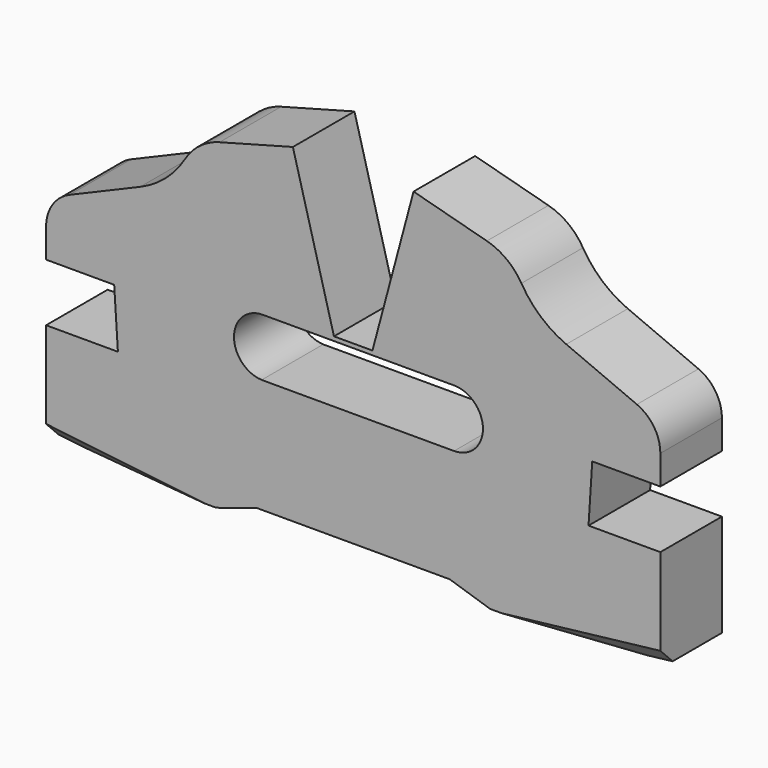
from build123d import *

# Parameters (mm, degrees)
F1_DEPTH = 12.7
F2_SIZE  = 5.08


with BuildPart() as f1:
    # F0 (on Front) → F1 (new body, symmetric)
    with BuildSketch(Plane.XZ):
        with BuildLine():
            Line((-78.86985, 24.153677), (-77.649682, 5.103677))
            Line((-77.649682, 5.103677), (-101.346, 5.103677))
            Line((-101.346, 5.103677), (-101.346, -28.678323))
            Line((-101.346, -28.678323), (-92.893675, -29.661545))
            Line((-92.893675, -29.661545), (-45.212, -29.661545))
            Line((-45.212, -29.661545), (-31.82804, -25.383405))
            Line((-31.82804, -25.383405), (31.82804, -25.383405))
            Line((31.82804, -25.383405), (45.212, -29.661545))
            Line((45.212, -29.661545), (92.893675, -29.661545))
            Line((92.893675, -29.661545), (101.346, -28.678323))
            Line((101.346, -28.678323), (101.346, 5.103677))
            Line((101.346, 5.103677), (77.649682, 5.103677))
            Line((77.649682, 5.103677), (78.86985, 24.153677))
            Line((78.86985, 24.153677), (101.346, 24.153677))
            Line((101.346, 24.153677), (101.346, 33.805677))
            ThreePointArc((101.346, 33.805677), (99.237568, 40.813436), (93.612348, 45.494363))
            Line((93.612348, 45.494363), (70.308838, 55.395677))
            ThreePointArc((70.308838, 55.395677), (61.88423, 60.664586), (55.500858, 68.27957))
            ThreePointArc((55.500858, 68.27957), (50.637881, 73.685788), (44.103503, 76.876033))
            Line((44.103503, 76.876033), (19.907397, 83.368455))
            Line((19.907397, 83.368455), (6.35, 32.77156))
            Line((6.35, 32.77156), (-6.35, 32.77156))
            Line((-6.35, 32.77156), (-19.907397, 83.368455))
            Line((-19.907397, 83.368455), (-44.103503, 76.876033))
            ThreePointArc((-44.103503, 76.876033), (-50.637881, 73.685788), (-55.500858, 68.27957))
            ThreePointArc((-55.500858, 68.27957), (-61.88423, 60.664586), (-70.308838, 55.395677))
            Line((-70.308838, 55.395677), (-93.612348, 45.494363))
            ThreePointArc((-93.612348, 45.494363), (-99.237568, 40.813436), (-101.346, 33.805677))
            Line((-101.346, 33.805677), (-101.346, 24.153677))
            Line((-101.346, 24.153677), (-78.86985, 24.153677))
        make_face()
        with BuildLine():
            Line((33.285186, 12.346792), (-30.214814, 12.346792))
            ThreePointArc((-30.214814, 12.346792), (-39.345917, 22.065697), (-29.81886, 31.396792))
            Line((-29.81886, 31.396792), (33.285186, 31.396792))
            ThreePointArc((33.285186, 31.396792), (42.810186, 21.871792), (33.285186, 12.346792))
        make_face(mode=Mode.SUBTRACT)
    extrude(amount=F1_DEPTH, both=True)

    # F2
    f2_edges = [f1.edges().sort_by_distance(p)[0] for p in [
        (-97.119838, -12.7, -29.169934),
        (97.119838, -12.7, -29.169934),
    ]]
    chamfer(f2_edges, length=F2_SIZE)


solid = f1.part
